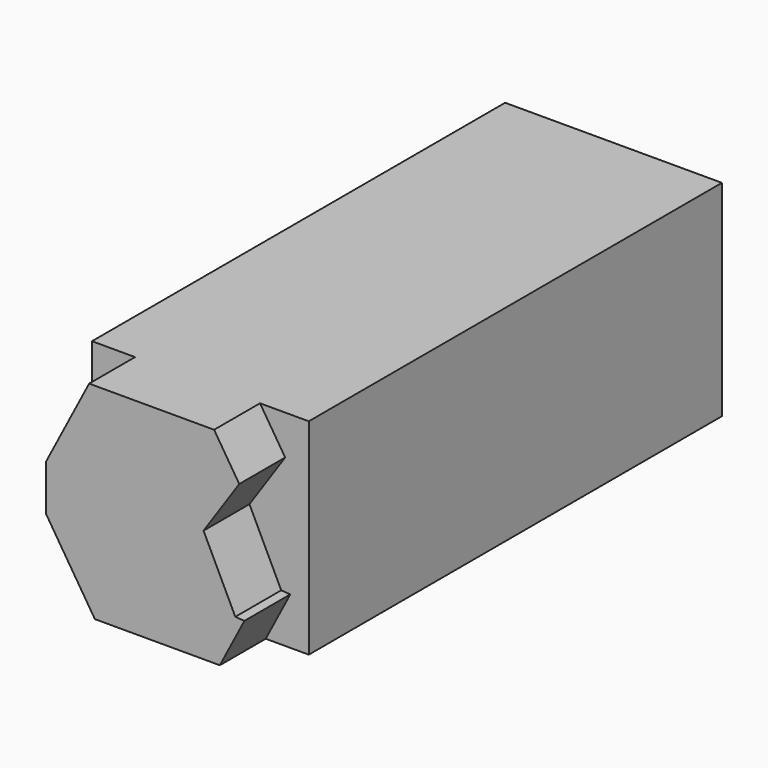
from build123d import *

# Parameters (mm, degrees)
F0_W     = 95.96628
F0_H     = 90.955272
F1_DEPTH = 114.3
F3_DEPTH = 25.4


with BuildPart() as f1:
    # F0 (on Front) → F1 (new body, symmetric)
    with BuildSketch(Plane.XZ):
        Rectangle(F0_W, F0_H)
    extrude(amount=F1_DEPTH, both=True)

    # F2 (on face) → F3 (join)
    with BuildSketch(Plane.XZ.offset(114.3)):
        Polygon((-26.392213, -45.477636), (28.925862, -45.477636), (39.788153, -24.648457), (35.779428, -24.360058), (21.715142, 4.623427), (37.52931, 27.96774), (26.392213, 45.477636), (-28.925862, 45.477636), (-47.98314, 8.934015), (-47.98314, -11.532086), align=None)
    extrude(amount=F3_DEPTH)


solid = f1.part
